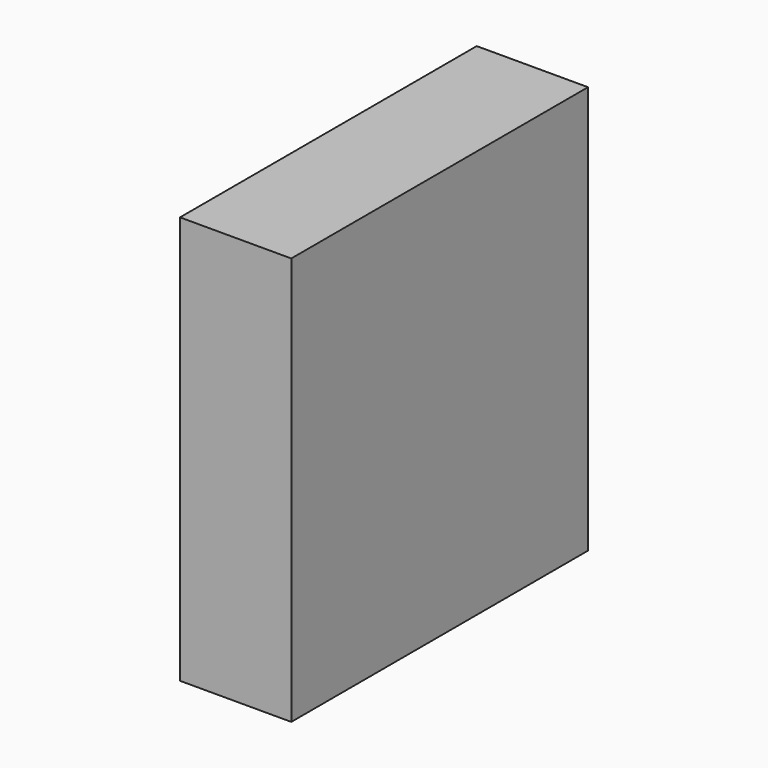
from build123d import *

# Parameters (mm, degrees)
BOX_W     = 3
BOX_H     = 10
BOX_DEPTH = 11


with BuildPart() as part:
    # Box → Box (new body)
    with BuildSketch(Plane.XY):
        with Locations((1.5, 5)):
            Rectangle(BOX_W, BOX_H)
    extrude(amount=BOX_DEPTH)


solid = part.part
